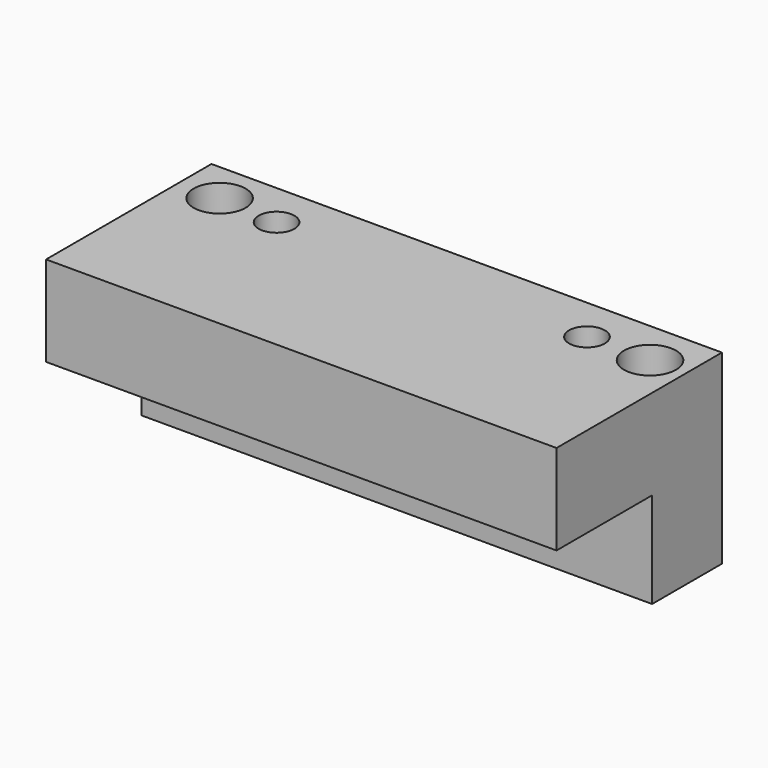
from build123d import *

# Parameters (mm, degrees)
F1_DEPTH = 101.6
F2_R     = 5.177771
F2_R_2   = 3.551919
F3_DEPTH = 25.4


with BuildPart() as f1:
    # F0 (on Right) → F1 (new body)
    with BuildSketch(Plane.YZ):
        Polygon((0, -6.5532), (0, 0), (0, 14.7828), (0, 17.9578), (-28.447999, 17.9578), (-41.147999, 17.9578), (-41.147999, 8.4328), (-41.147999, 0), (-17.373601, 0), (-17.373601, -19.05), (0, -19.05), align=None)
    extrude(amount=F1_DEPTH)

    # F2 (on face) → F3 (cut)
    with BuildSketch(Plane.XY.offset(17.9578)):
        with Locations((8.189999, -8.207707)):
            Circle(F2_R)
        with Locations((20.153444, -8.992195)):
            Circle(F2_R_2)
        with Locations((94.483703, -8.992195)):
            Circle(F2_R)
        with Locations((81.931897, -8.992195)):
            Circle(F2_R_2)
    extrude(amount=-F3_DEPTH, mode=Mode.SUBTRACT)


solid = f1.part
